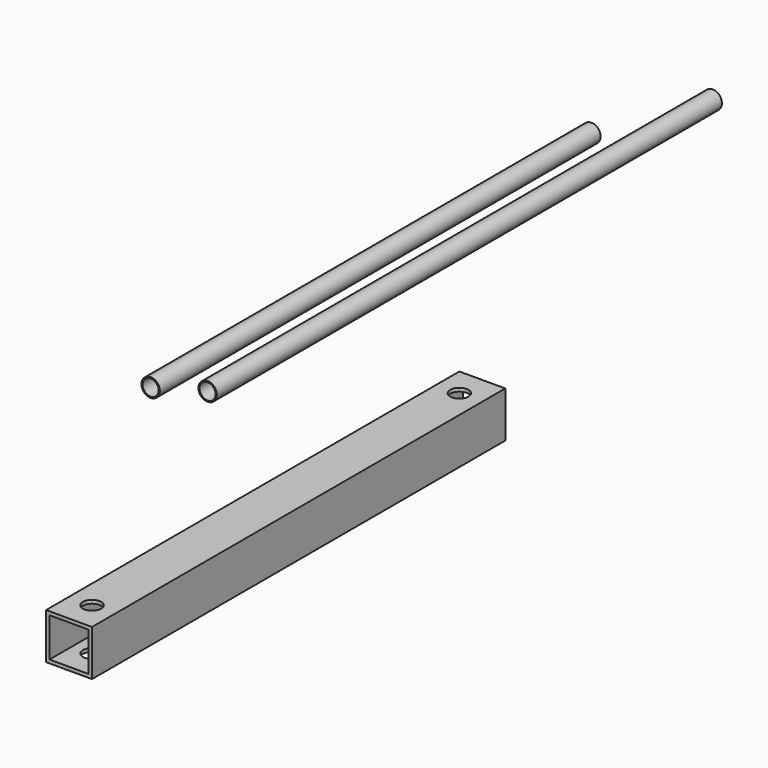
from build123d import *

# Parameters (mm, degrees)
F0_W     = 20
F0_H     = 225
F1_DEPTH = 20
F3_DEPTH = 225
F5_D     = 8
F5_DEPTH = 450
F6_R     = 4
F6_R_2   = 3.5
F7_DEPTH = 240
F8_R     = 4
F8_R_2   = 3.5
F9_DEPTH = 275


with BuildPart() as f1:
    # F0 (on Top) → F1 (new body)
    with BuildSketch(Plane.XY):
        Rectangle(F0_W, F0_H)
    extrude(amount=F1_DEPTH)

    # F2 (on face) → F3 (cut)
    with BuildSketch(Plane.XZ.offset(112.5)):
        Polygon((8.5, 1.5), (8.5, 18.5), (-8.5, 1.5), align=None)
        Polygon((-8.5, 1.5), (8.5, 18.5), (-8.5, 18.5), align=None)
    extrude(amount=-F3_DEPTH, mode=Mode.SUBTRACT)

    # F5
    with Locations(Plane.XY.offset(20)):
        with Locations((0, -100), (0, 100)):
            Hole(F5_D / 2, depth=F5_DEPTH)


with BuildPart() as f7:
    # F6 (on Front) → F7 (new body)
    with BuildSketch(Plane.XZ):
        with Locations((-54.463178, 45.117497)):
            Circle(F6_R)
        with Locations((-54.463178, 45.117497)):
            Circle(F6_R_2, mode=Mode.SUBTRACT)
    extrude(amount=-F7_DEPTH)


with BuildPart() as f9:
    # F8 (on Front) → F9 (new body)
    with BuildSketch(Plane.XZ):
        with Locations((-29.652413, 51.69981)):
            Circle(F8_R)
        with Locations((-29.652413, 51.69981)):
            Circle(F8_R_2, mode=Mode.SUBTRACT)
    extrude(amount=-F9_DEPTH)


solid = Compound([f1.part, f7.part, f9.part])
